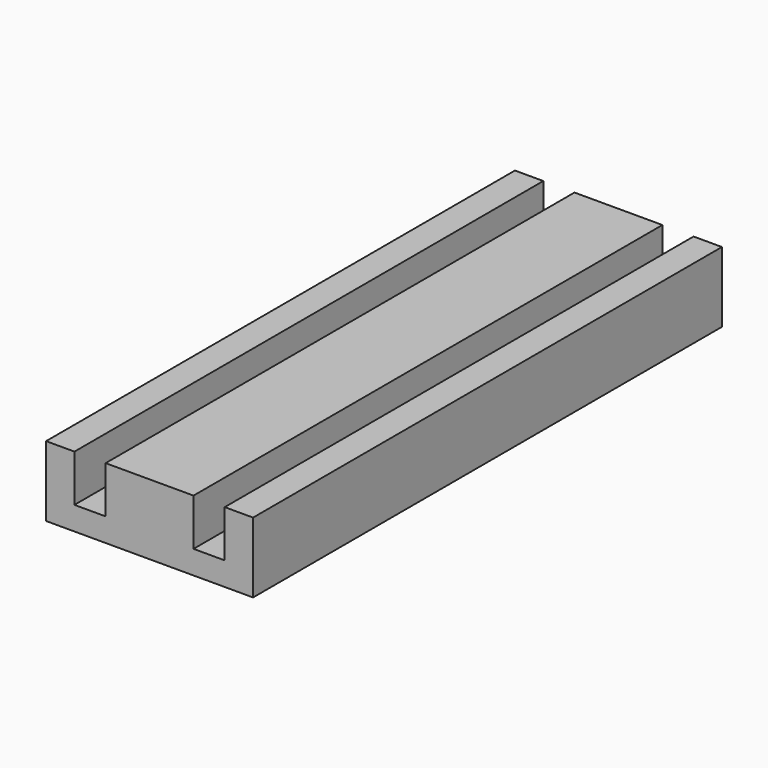
from build123d import *

# Parameters (mm, degrees)
F0_W     = 3.025
F0_H     = 62.5
F0_W_2   = 9.375
F1_DEPTH = 5
F0_W_3   = 3.325
F2_DEPTH = 2.5


with BuildPart() as f1:
    # F0 (on Top) → F1 (new body)
    with BuildSketch(Plane.XY):
        with Locations((-43.415511, -61.700828)):
            Rectangle(F0_W, F0_H)
        with Locations((-33.890511, -61.700828)):
            Rectangle(F0_W_2, F0_H)
        with Locations((-24.365511, -61.700828)):
            Rectangle(F0_W, F0_H)
    extrude(amount=F1_DEPTH)

    # F0 (on Top) → F2 (join)
    with BuildSketch(Plane.XY):
        with Locations((-40.240511, -61.700828)):
            Rectangle(F0_W_3, F0_H)
        with Locations((-43.415511, -61.700828)):
            Rectangle(F0_W, F0_H)
        with Locations((-33.890511, -61.700828)):
            Rectangle(F0_W_2, F0_H)
        with Locations((-27.540511, -61.700828)):
            Rectangle(F0_W_3, F0_H)
        with Locations((-24.365511, -61.700828)):
            Rectangle(F0_W, F0_H)
    extrude(amount=-F2_DEPTH)


solid = f1.part
